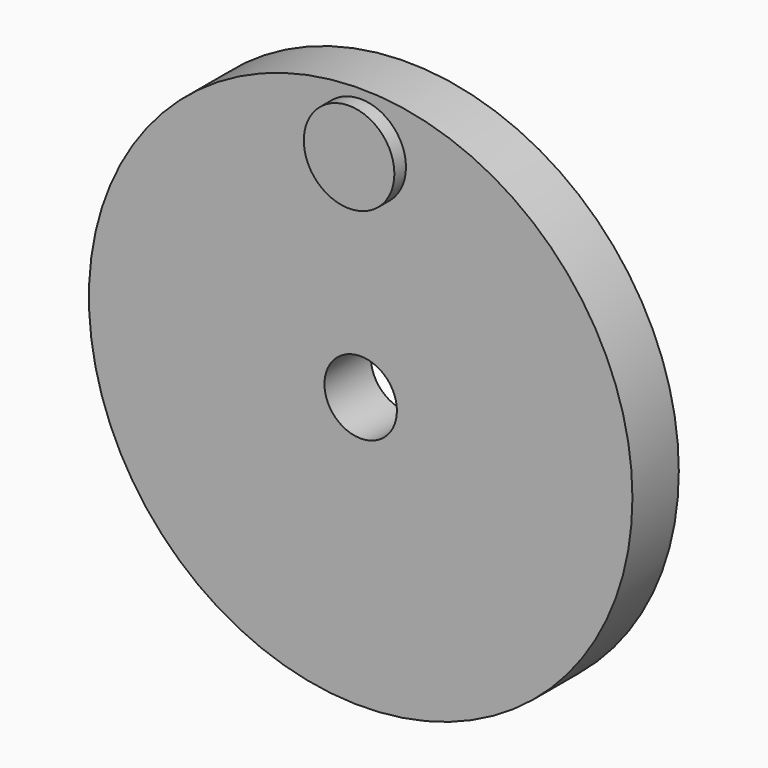
from build123d import *

# Parameters (mm, degrees)
F1_R     = 9.525
F1_R_2   = 1.27
F2_DEPTH = 2.032
F0_R     = 1.5875
F3_DEPTH = 2.54


with BuildPart() as f2:
    # F1 (on Front) → F2 (new body)
    with BuildSketch(Plane.XZ):
        Circle(F1_R)
        Circle(F1_R_2, mode=Mode.SUBTRACT)
    extrude(amount=F2_DEPTH)

    # F0 (on Front) → F3 (join)
    with BuildSketch(Plane.XZ):
        with Locations((0, 7.62)):
            Circle(F0_R)
    extrude(amount=F3_DEPTH)


solid = f2.part
